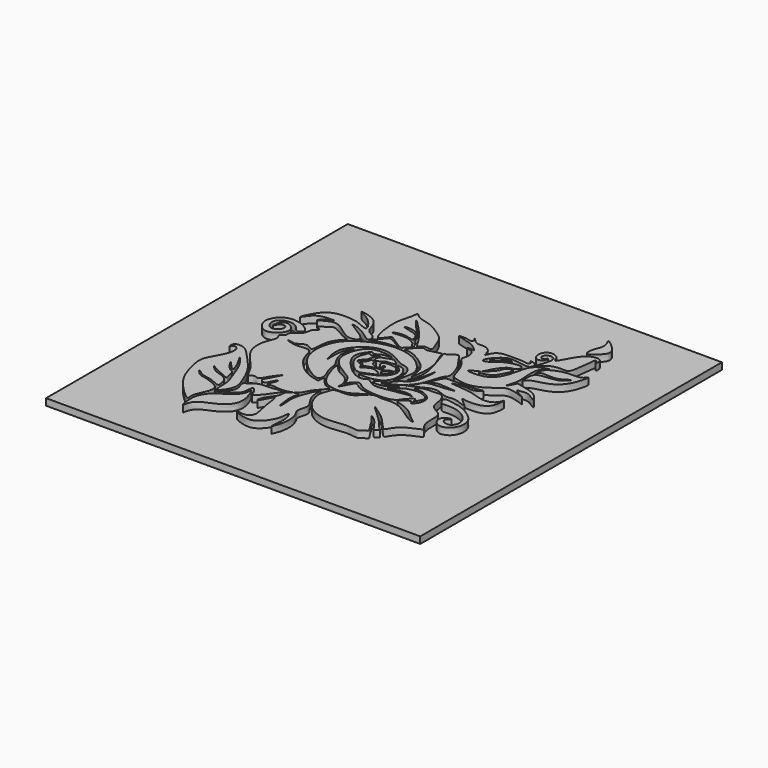
from build123d import *

# Parameters (mm, degrees)
F0_W      = 142.0335918665
F0_H      = 143.1416124105
F2_DEPTH  = 2.54
F4_DEPTH  = 2.54
F6_DEPTH  = 2.54
F8_DEPTH  = 2.54
F10_DEPTH = 2.54
F12_DEPTH = 2.54
F14_DEPTH = 2.54
F16_DEPTH = 2.54
F18_DEPTH = 2.54
F20_DEPTH = 2.54
F22_DEPTH = 2.54
F24_DEPTH = 2.54
F26_DEPTH = 2.54
F29_DEPTH = 2.54
F30_DEPTH = 2.54
F32_DEPTH = 2.54
F34_DEPTH = 2.54
F37_DEPTH = 2.54
F39_DEPTH = 2.54
F40_DEPTH = 2.54
F42_DEPTH = 2.54
F44_DEPTH = 2.54
F46_DEPTH = 2.54
F48_DEPTH = 2.54
F50_DEPTH = 2.54
F52_DEPTH = 2.54
F54_DEPTH = 2.54
F56_DEPTH = 2.54
F58_DEPTH = 2.54
F60_DEPTH = 2.54


with BuildPart() as f2:
    # F0 (on Top) → F2 (new body)
    with BuildSketch(Plane.XY):
        with Locations((0.7775574923, 0.4604011774)):
            Rectangle(F0_W, F0_H)
    extrude(amount=F2_DEPTH)

    # F3 (on face) → F4 (join)
    with BuildSketch(Plane.XY.offset(2.54)):
        with BuildLine():
            add(Edge.make_bspline(
                [(-35.9354950488, 5.2121505141), (-35.2554570232, 5.1129175661), (-33.1383157223, 6.5552011276), (-37.4565964475, 9.9123260933), (-42.1652799934, 10.5610988456), (-45.8646589743, 9.1320237133), (-48.5881693293, 4.2437619988), (-45.0719481248, -0.6927563574), (-40.9546030903, -0.6338683464), (-36.6966390998, 3.8474446901), (-40.2712487498, 7.6506772457), (-43.6560850077, 7.3397958577), (-44.3151224321, 2.0770944583), (-42.8763483733, 5.9241298542), (-39.9442654797, 5.7385537507), (-40.2701621801, 2.6792969789), (-43.5791400829, 1.3295823492), (-45.6021554346, 4.0471891281), (-45.4338628885, 7.1566123229), (-41.7677085642, 8.784123456), (-37.9564631887, 7.8107798415), (-36.7767901783, 5.3349145254), (-35.9354950488, 5.2121505141)],
                knots=[0, 0, 0, 0, 0.0386492329, 0.0947239122, 0.1553759691, 0.2079056098, 0.2680184246, 0.329543762, 0.3818147554, 0.4426685573, 0.4973749178, 0.5429224221, 0.5903707318, 0.6306123397, 0.6703085908, 0.711066894, 0.7573876449, 0.8033133974, 0.8480794943, 0.899275842, 0.9521858922, 1, 1, 1, 1], degree=3))
        make_face()
    extrude(amount=F4_DEPTH)

    # F5 (on offset) → F6 (join)
    with BuildSketch(Plane.XY.offset(2.54)):
        with BuildLine():
            add(Edge.make_bspline(
                [(-20.4722061753, 11.5269897506), (-19.3379010097, 11.6284609999), (-15.6853242202, 13.3320865451), (-30.2233198336, 20.4128416434), (-20.2019359659, 17.4429847541), (-15.7271246312, 12.5889805413), (-15.5640504579, 16.8255707666), (-19.8371067669, 17.9487383007), (-20.4693780212, 22.1267800851), (-23.1531747857, 26.0530880901), (-31.3699434313, 27.4910409232), (-24.3155524766, 25.1609740177), (-19.085849949, 17.5966785414), (-25.4455642017, 21.0655614937), (-28.7775689783, 21.424779901), (-37.8661107746, 22.0639606343), (-42.3157469012, 9.7112083792), (-38.5589378654, 17.2690882364), (-33.4918596477, 17.4550441849), (-30.7666025488, 17.4212007234), (-34.0572486473, 16.692603375), (-36.9764716907, 13.3325078265), (-32.8414991936, 16.1232944694), (-29.2230485979, 16.8528724567), (-24.5836725246, 12.8450154255), (-21.9222712218, 11.3972716497), (-20.4722061753, 11.5269897506)],
                knots=[0, 0, 0, 0, 0.0321466283, 0.092646097, 0.1380324678, 0.1852167514, 0.2132445989, 0.2521054472, 0.2906388899, 0.3350883226, 0.37927787, 0.4218444652, 0.4719459711, 0.5114633494, 0.5514989732, 0.6086961489, 0.6641777781, 0.7043618961, 0.7510018603, 0.7743777606, 0.8054874689, 0.8384652978, 0.8726279833, 0.9112667531, 0.9589046198, 1, 1, 1, 1], degree=3))
        make_face()
    extrude(amount=F6_DEPTH)

    # F7 (on offset) → F8 (join)
    with BuildSketch(Plane.XY.offset(2.54)):
        with BuildLine():
            add(Edge.make_bspline(
                [(-14.4707430154, 16.9961228967), (-13.6719687369, 16.8767807179), (-12.123345847, 19.8646493185), (-10.7871400698, 19.5949402524), (-4.8286560566, 15.0035902445), (-4.7103354041, 17.233077586), (-2.7541701818, 17.9570956221), (-3.7893187836, 19.4864205586), (-4.5586030076, 20.8328990838), (-8.2815745881, 22.7956377859), (-15.3074791288, 21.3493573667), (-10.0128333035, 23.8741829191), (-4.8019923542, 21.5078901328), (-6.2723270811, 23.5288222702), (-6.6214324112, 25.3247301319), (-9.8023833485, 26.2490865744), (-14.4984987771, 27.257400949), (-9.6025103833, 27.7098432028), (-6.1117910984, 24.8796729367), (-17.0653466723, 37.2177686624), (-4.393641803, 24.8707915569), (-2.2026406294, 18.9340257111), (-1.3110347589, 20.4060934272), (-0.168202987, 21.399586838), (3.2260458784, 20.3067304913), (1.5272539933, 23.5496483473), (0.4659681955, 27.8336995818), (-3.721652036, 30.7826615379), (-8.1095147799, 33.5240157232), (-13.2233541826, 34.117537094), (-15.1941748517, 36.9414459405), (-15.2888594717, 32.6270441578), (-17.5348825255, 28.4840006284), (-15.8921002891, 17.2084831071), (-14.4707430154, 16.9961228967)],
                knots=[0, 0, 0, 0, 0.0311193674, 0.0505845196, 0.0936012403, 0.11182475, 0.1334992399, 0.153166067, 0.1742051839, 0.209706828, 0.2460290145, 0.2769911026, 0.3131936642, 0.3316727083, 0.3541499805, 0.3859064034, 0.4145489472, 0.4452837376, 0.4681999537, 0.5148219938, 0.5697118241, 0.6117066817, 0.6270328723, 0.6479794144, 0.6741303951, 0.6998852128, 0.7364215261, 0.7739110329, 0.8129472351, 0.8515851047, 0.8753611375, 0.9025990642, 0.9446254839, 1, 1, 1, 1], degree=3))
        make_face()
    extrude(amount=F8_DEPTH)

    # F9 (on face) → F10 (join)
    with BuildSketch(Plane.XY.offset(2.54)):
        with BuildLine():
            add(Edge.make_bspline(
                [(13.1534831598, 21.9420548528), (13.3404544268, 21.0224810889), (16.4008715382, 18.9038213228), (18.0721404253, 11.8806000513), (18.7705348936, 11.0552418841), (25.6731811654, 8.6181785023), (32.9481131814, 13.4018600497), (35.9474016852, 16.4486242079), (45.7791391412, 12.3944414337), (37.4688584886, 16.2306659446), (40.1289271961, 16.368316636), (42.6419699367, 17.1412072422), (47.255157191, 13.2128522962), (44.7185622956, 17.3325382105), (40.5741109504, 18.8122044302), (37.6854991699, 19.2906497576), (35.997004641, 19.9507963825), (35.8779875096, 18.8983101348), (33.2756072347, 14.7320606518), (35.5373520673, 19.8911600689), (35.2493852002, 23.6135638801), (34.8499645019, 28.3450646507), (35.7405353167, 31.3178704295), (39.1058628256, 33.1747315711), (34.7556650382, 32.1769596494), (31.9295410686, 30.0471410656), (30.9402032347, 23.9648636928), (29.3868000546, 19.7161528882), (25.8503432093, 16.3053060425), (16.7728846623, 16.7024470435), (23.0795014514, 18.6815451432), (23.721398969, 20.8641795419), (25.5610885989, 24.1393617718), (27.8791804577, 26.4392314826), (30.2401351606, 26.2520064488), (30.9304609983, 28.2355743275), (29.9937569943, 29.2404490087), (27.4242303411, 28.9708040588), (23.7381557894, 27.7918811204), (22.0960534131, 25.8742696575), (18.7250854278, 24.2063945245), (18.5817124211, 26.0557215918), (20.8115905693, 28.8191325497), (24.0772668582, 31.4214244849), (29.0328713771, 30.1598088181), (32.8660263717, 29.8704008066), (32.6852892781, 32.549827415), (31.731916501, 33.1418637449), (29.2910681134, 33.6664071856), (31.1617404529, 32.7027391689), (30.8906228081, 31.3809674728), (28.3915888974, 31.9997540229), (26.4981211825, 31.8806289305), (21.4442091765, 32.2288529637), (18.1483771734, 31.0403958632), (16.9329521302, 26.8408723651), (16.6098045408, 31.0643503242), (12.9591651424, 32.7484891638), (10.3507339121, 31.5169784711), (7.0688584373, 35.9239875437), (9.709137801, 31.8200063743), (6.1746874214, 33.0653399769), (1.7585757562, 32.8482896237), (7.9093414891, 31.470385069), (10.4123399307, 30.5770528591), (13.6449782737, 27.5954265668), (11.5148746807, 28.6681761193), (9.2660271932, 28.2183053556), (11.5573450127, 27.7387841588), (13.0869454668, 27.3167837932), (14.008893625, 23.9947908226), (13.0207765331, 22.5947408738), (13.1534831598, 21.9420548528)],
                knots=[0, 0, 0, 0, 0.0173633581, 0.0392801509, 0.0477943813, 0.0688506749, 0.0929892783, 0.1108138708, 0.1305952167, 0.1477829689, 0.1562750399, 0.1709834112, 0.1872395983, 0.2003868685, 0.2186805401, 0.2332420147, 0.2429174505, 0.2510732648, 0.265415457, 0.2801175691, 0.2976624073, 0.3154992442, 0.3304842126, 0.3425755811, 0.3561935417, 0.3723283205, 0.3925044514, 0.4101496806, 0.4289803315, 0.4486587674, 0.4643117276, 0.4773955927, 0.4934075303, 0.5082163841, 0.5200895032, 0.5306854703, 0.5391997036, 0.5522622573, 0.5684864256, 0.5825008009, 0.5968388911, 0.6051470036, 0.6207753667, 0.6373898393, 0.6562360133, 0.6709507973, 0.6821579094, 0.6915621344, 0.701793733, 0.7107411286, 0.7183590984, 0.7305337188, 0.7427083448, 0.7611841566, 0.777002137, 0.7901983183, 0.8031787889, 0.8191345736, 0.8330817642, 0.8475089993, 0.8590266846, 0.8725272742, 0.8860182299, 0.9026392908, 0.9188773574, 0.9327385974, 0.9424140253, 0.9525678822, 0.9624122625, 0.9732137352, 0.9876760065, 1, 1, 1, 1], degree=3))
        make_face()
    extrude(amount=F10_DEPTH)

    # F11 (on offset) → F12 (join)
    with BuildSketch(Plane.XY.offset(2.54)):
        with BuildLine():
            add(Edge.make_bspline(
                [(25.8774682879, 29.7046620399), (25.877378733, 29.9447256068), (21.5681163945, 29.5375647181), (18.8822996448, 25.8217818992), (22.9997394794, 27.2991365897), (23.3862874417, 28.6904079905), (25.8775354116, 29.5247284618), (25.8774682879, 29.7046620399)],
                knots=[0, 0, 0, 0, 0.2454508892, 0.4537487904, 0.6499883579, 0.8160284908, 1, 1, 1, 1], degree=3))
        make_face()
    extrude(amount=F12_DEPTH)

    # F13 (on offset) → F14 (join)
    with BuildSketch(Plane.XY.offset(2.54)):
        with BuildLine():
            add(Edge.make_bspline(
                [(29.8257879913, 25.4517160356), (29.4171129523, 25.8828761518), (26.6542167397, 24.9734499335), (27.210274692, 22.2751480287), (20.1825132478, 17.2673451769), (26.6737526051, 18.6519148858), (28.2506539934, 20.7904737396), (30.3733167173, 24.8740625783), (29.8257879913, 25.4517160356)],
                knots=[0, 0, 0, 0, 0.1367757989, 0.2834471678, 0.4891642102, 0.6502052997, 0.8167525006, 1, 1, 1, 1], degree=3))
        make_face()
    extrude(amount=F14_DEPTH)

    # F15 (on offset) → F16 (join)
    with BuildSketch(Plane.XY.offset(2.54)):
        with BuildLine():
            add(Edge.make_bspline(
                [(33.280197531, 32.0301018655), (33.4245383904, 31.7014234747), (36.2760580071, 35.2615645125), (40.9004625846, 35.1461307925), (43.6674562601, 34.9694728936), (44.1244042789, 41.8089709124), (44.6433823171, 44.1886952719), (44.7703706057, 46.6582784763), (46.1462795382, 43.5105490685), (46.294645397, 46.3157717688), (44.9614200098, 47.4456561479), (41.4943989638, 46.7951507335), (38.6631049807, 43.5530880192), (35.4481077304, 36.517051087), (35.1029893605, 40.2479215586), (31.7221909675, 41.8204333956), (28.6681201258, 39.4630126773), (29.7842886905, 35.1176454059), (32.3130408141, 35.5016969822), (33.2161970936, 36.1608386245), (33.069036841, 38.8003663349), (32.6008360748, 36.1378064195), (30.7526507325, 37.1197302818), (30.8332596793, 38.6757100767), (32.6058082368, 39.9382089911), (36.0483363782, 38.6575541882), (33.0911584074, 32.4605626179), (33.280197531, 32.0301018655)],
                knots=[0, 0, 0, 0, 0.0471590029, 0.1023377215, 0.1375286159, 0.1983095151, 0.2422053079, 0.2692112014, 0.3008470622, 0.3309644511, 0.3624391152, 0.4051803921, 0.4603780198, 0.5193135595, 0.552767607, 0.5976419048, 0.6415070541, 0.6879991106, 0.7227142726, 0.7493291621, 0.7793527275, 0.8077731567, 0.8370126341, 0.8653191585, 0.8994949404, 0.9382371934, 1, 1, 1, 1], degree=3))
        make_face()
    extrude(amount=F16_DEPTH)

    # F17 (on offset) → F18 (join)
    with BuildSketch(Plane.XY.offset(2.54)):
        with BuildLine():
            add(Edge.make_bspline(
                [(40.1464514434, 47.5408770144), (40.8248120172, 47.1180618829), (44.1039363324, 49.8556541941), (46.3162696693, 53.3753215698), (38.841973028, 59.2782374772), (41.1514328473, 55.8617557401), (41.0790637926, 53.084152907), (39.907190525, 51.4212264715), (39.5222671601, 47.9299246242), (40.1464514434, 47.5408770144)],
                knots=[0, 0, 0, 0, 0.1572549013, 0.309472923, 0.5030827999, 0.6076144616, 0.7375401041, 0.855304035, 1, 1, 1, 1], degree=3))
        make_face()
    extrude(amount=F18_DEPTH)

    # F19 (on offset) → F20 (join)
    with BuildSketch(Plane.XY.offset(2.54)):
        with BuildLine():
            add(Edge.make_bspline(
                [(-15.4731022194, 14.0000209212), (-15.5027259609, 13.5575448795), (-11.8031624922, 16.0196148647), (-5.5863361557, 15.4620031878), (-7.0647326034, 16.5637185747), (-11.5677689534, 19.0964300394), (-11.9819268476, 18.3795057046), (-15.4377550511, 14.5279851253), (-15.4731022194, 14.0000209212)],
                knots=[0, 0, 0, 0, 0.1820832905, 0.4018722122, 0.4861317252, 0.69528662, 0.7827374807, 1, 1, 1, 1], degree=3))
        make_face()
    extrude(amount=F20_DEPTH)

    # F21 (on offset) → F22 (join)
    with BuildSketch(Plane.XY.offset(2.54)):
        with BuildLine():
            add(Edge.make_bspline(
                [(36.0699370503, 25.9624160826), (35.7728350516, 24.5820973443), (35.9270303555, 20.9478276986), (36.6339681373, 23.1614133305), (39.0352620793, 24.1585737135), (45.8534012243, 25.5641918396), (49.4088137441, 31.068457388), (50.4360229085, 37.1930984167), (48.9508993752, 33.7267112158), (43.2060754734, 34.5973245717), (38.5342011703, 32.7251504384), (36.0950934535, 30.9650051167), (36.1813355446, 26.8027578113), (36.4742976938, 29.6522235121), (40.2511481268, 29.2052463888), (44.3133017119, 29.2125828739), (48.382013196, 32.7756282644), (45.5979058993, 29.1336259061), (42.9413339105, 28.4390253368), (40.3682757785, 28.2252486105), (37.2442968538, 27.9231351882), (36.2906993266, 26.9880648764), (36.0699370503, 25.9624160826)],
                knots=[0, 0, 0, 0, 0.0553812677, 0.0820668936, 0.1266622044, 0.1981265579, 0.271818098, 0.327605566, 0.3630802661, 0.4285309951, 0.491229354, 0.5396112054, 0.5838450817, 0.6139819111, 0.6641681172, 0.7245801713, 0.7738684067, 0.8182078868, 0.8663647124, 0.9112685852, 0.9588488305, 1, 1, 1, 1], degree=3))
        make_face()
    extrude(amount=F22_DEPTH)

    # F23 (on offset) → F24 (join)
    with BuildSketch(Plane.XY.offset(2.54)):
        with BuildLine():
            add(Edge.make_bspline(
                [(17.167950049, 8.6157666519), (16.2085433785, 7.5650693974), (13.9872418554, 2.3448839631), (17.1860272622, 5.1663917151), (19.5740563893, 4.8037940781), (26.8577731117, 4.2807665769), (23.5447788534, 4.4034638919), (21.0495657881, 3.4556384186), (13.5549772911, 3.8865451442), (13.4392993192, 0.020532717), (9.9959548502, -2.3999973869), (13.3600947256, -1.0306569696), (15.3564187388, -0.0867382259), (19.7417159752, 2.4347484811), (24.5504455373, -0.7990014666), (27.8415818831, 0.8929800859), (35.2589981458, -2.9084801822), (28.43068074, 2.2063105232), (30.7603608455, 1.505858763), (35.0952400069, 1.2954078148), (39.9764628899, 3.1880867583), (39.8352094966, 10.1467382716), (39.5846539297, 6.7760484441), (36.3886402814, 4.6424235535), (32.1828737769, 5.4813852736), (28.2493399307, 7.1405365167), (19.4390916246, 7.3676124264), (22.3123943643, 8.0371596068), (25.9795559859, 8.4980893327), (28.7087582986, 7.6070492228), (32.307307341, 10.1210484672), (28.6498686371, 9.2976229952), (26.0820851875, 9.0520907707), (22.8418281021, 9.0773319344), (18.7394524885, 8.9269723128), (17.7076388524, 9.2068085545), (17.167950049, 8.6157666519)],
                knots=[0, 0, 0, 0, 0.0366358996, 0.0585829413, 0.087727152, 0.1245023385, 0.1429599746, 0.172033043, 0.2126378609, 0.2419781047, 0.2672074925, 0.2898806151, 0.3163713357, 0.35039673, 0.3861241469, 0.4183929544, 0.4516779655, 0.4850090614, 0.4996866372, 0.534353129, 0.5702172125, 0.6040223996, 0.6234142257, 0.6541364576, 0.685823681, 0.7224503315, 0.7638217418, 0.7811078676, 0.8130099454, 0.8414073676, 0.8670200834, 0.8904934904, 0.9180954315, 0.94732806, 0.9793914454, 1, 1, 1, 1], degree=3))
        make_face()
    extrude(amount=F24_DEPTH)

    # F25 (on offset) → F26 (join)
    with BuildSketch(Plane.XY.offset(2.54)):
        with BuildLine():
            add(Edge.make_bspline(
                [(25.4671033472, -1.8096164567), (25.1408005382, -2.3145240819), (26.1257281554, -4.613528543), (28.4059850971, -4.3037546017), (32.1394353993, -4.3078335725), (36.7095638363, -6.5623311536), (38.9969130293, -10.2464368677), (37.7069803427, -13.8584843783), (34.8009909074, -13.717516222), (32.9738725281, -11.8939479789), (36.4536495143, -9.7039885794), (31.5512951469, -11.0753889744), (32.289158991, -14.7320708607), (35.3348055471, -16.5948499067), (39.0559762647, -14.7563483653), (40.3387702077, -11.0681196221), (39.5539119029, -7.4338756386), (36.2379794916, -4.4788352039), (32.4083224197, -2.5293982504), (29.002204852, -1.9194788087), (25.8449100144, -1.2250138673), (25.4671033472, -1.8096164567)],
                knots=[0, 0, 0, 0, 0.0451934074, 0.0875641715, 0.1441981239, 0.2102223153, 0.2694826888, 0.3209874668, 0.3674108657, 0.407250849, 0.4489730767, 0.4976333046, 0.5486374956, 0.6007707987, 0.6567863497, 0.7131141905, 0.7680396828, 0.8291873428, 0.8896181384, 0.9476732344, 1, 1, 1, 1], degree=3))
        make_face()
    extrude(amount=F26_DEPTH)

    # F27 (on offset) → F29 (join)
    with BuildSketch(Plane.XY.offset(2.54)):
        with BuildLine():
            add(Edge.make_bspline(
                [(-3.6368290894, 15.9606467932), (-3.5548947515, 16.6998594203), (0.2317111451, 21.1714116572), (0.933180565, 18.7798964206), (7.1103172478, 21.3096559009), (6.7292609428, 19.8539956903), (8.6949207245, 15.9205177848), (10.116349107, 10.588258814), (8.7668898148, 1.8413201536), (8.4533511736, 6.5441003248), (7.4464378214, 11.1584738752), (-1.3288752941, 16.4660709012), (-3.6813541592, 15.5589410527), (-3.6368290894, 15.9606467932)],
                knots=[0, 0, 0, 0, 0.1068687809, 0.1601311504, 0.2672326997, 0.3040796451, 0.395771517, 0.5145739623, 0.6266015446, 0.6938796309, 0.7983642952, 0.9419249602, 1, 1, 1, 1], degree=3))
        make_face()
    extrude(amount=F29_DEPTH)

    # F28 (on offset) → F30 (join)
    with BuildSketch(Plane.XY.offset(2.54)):
        with BuildLine():
            add(Edge.make_bspline(
                [(5.8753937483, -4.124303814), (5.5142732943, -3.7160149451), (7.8388627921, -0.173908939), (12.3049350287, 0.9076114094), (12.6687554847, 14.5624684077), (11.8799700658, 4.4815592073), (7.7267791538, -0.9020242801), (12.9654403435, 7.3966149244), (5.8204798034, 22.0557956451), (8.2727203126, 20.6802568041), (10.8482256257, 24.0806783968), (12.680778573, 20.7360579875), (15.7491353595, 17.2882175661), (17.8273550882, 10.6666430388), (15.8943938733, 9.5510537351), (14.7622536507, 4.4371543321), (12.1679239079, -1.6418917074), (6.3308658259, -4.6392682182), (5.8753937483, -4.124303814)],
                knots=[0, 0, 0, 0, 0.052995571, 0.1169184483, 0.1968379041, 0.2646516387, 0.3229058346, 0.3933170815, 0.5000560634, 0.5267285396, 0.5772098894, 0.6222699178, 0.6872694772, 0.7572406999, 0.7940519809, 0.8558236296, 0.9331580292, 1, 1, 1, 1], degree=3))
        make_face()
    extrude(amount=F30_DEPTH)

    # F31 (on offset) → F32 (join)
    with BuildSketch(Plane.XY.offset(2.54)):
        with BuildLine():
            add(Edge.make_bspline(
                [(-12.1068069711, -14.3534000963), (-11.5408217786, -13.9951095763), (-11.4746972662, -11.51803969), (-13.4472999437, -8.5076304491), (-13.4083687988, -4.8261824515), (-15.0086116328, -2.7728272693), (-17.483101787, 2.2494591213), (-14.1466941037, 7.6621863342), (-18.3798351527, 4.0001734986), (-17.2179108698, -5.7808287199), (-18.9208739963, 0.7086843823), (-18.698149499, 5.5354446494), (-11.9291481832, 12.2595394373), (-4.2283772573, 11.6174928869), (0.7311160079, 7.7710000854), (3.307972141, 7.6646026233), (4.5039057771, 6.9488518408), (6.9845137754, 4.1493781388), (5.7845947737, -5.2550156474), (7.629224685, 3.3940453512), (8.0665296594, 7.4025203368), (3.5975042184, 12.3910147739), (-1.6926398736, 14.8875129907), (-8.8312028191, 15.5296787494), (-17.3707343318, 12.3677772309), (-23.7220731848, 6.8108911894), (-24.9360650467, -2.6011444469), (-21.6855974419, -8.7434616393), (-16.4887478795, -13.0656942054), (-12.8213510195, -14.8057341185), (-12.1068069711, -14.3534000963)],
                knots=[0, 0, 0, 0, 0.0251894459, 0.0562488206, 0.0855441026, 0.1110657347, 0.148641345, 0.1798726174, 0.2083323356, 0.2501897267, 0.2788212063, 0.3155622199, 0.3620674763, 0.4050740723, 0.4443380379, 0.4684058492, 0.4858966696, 0.5172677135, 0.5552561453, 0.5907492998, 0.6251111299, 0.6640815642, 0.7025834381, 0.7444704456, 0.7920871658, 0.8375025603, 0.8844900314, 0.9256887053, 0.96819887, 1, 1, 1, 1], degree=3))
        make_face()
    extrude(amount=F32_DEPTH)

    # F33 (on offset) → F34 (join)
    with BuildSketch(Plane.XY.offset(2.54)):
        with BuildLine():
            add(Edge.make_bspline(
                [(-4.5793405734, -4.6822861768), (-4.8518363865, -4.1403780382), (2.6922111223, -2.4110680477), (5.1205177682, 4.4143183262), (0.5557182311, 6.1446472466), (2.642388764, 6.7497803858), (5.899626706, 4.436208744), (6.4020329033, -5.627845971), (-4.2761094327, -5.2853171782), (-4.5793405734, -4.6822861768)],
                knots=[0, 0, 0, 0, 0.1695596992, 0.3301948154, 0.4426459102, 0.5056238264, 0.6294842538, 0.8113153358, 1, 1, 1, 1], degree=3))
        make_face()
    extrude(amount=F34_DEPTH)

    # F36 (on offset) → F37 (join)
    with BuildSketch(Plane.XY.offset(2.54)):
        with BuildLine():
            add(Edge.make_bspline(
                [(1.2782895938, 0), (2.1017424356, 0.4976219717), (4.3207625681, 3.3788397351), (-0.5163957084, 1.2742015453), (-0.130869627, -0.1891004837), (0.7152044642, -0.3402787849), (1.2782895938, 0)],
                knots=[0, 0, 0, 0, 0.297347943, 0.6138775654, 0.7966705602, 1, 1, 1, 1], degree=3))
        make_face()
    extrude(amount=F37_DEPTH)

    # F38 (on offset) → F39 (join)
    with BuildSketch(Plane.XY.offset(2.54)):
        with BuildLine():
            add(Edge.make_bspline(
                [(-7.0695918985, 4.3714242056), (-6.6216802176, 4.6947705186), (-4.8066399406, 4.6938041452), (-6.1402077109, 3.1561866366), (-3.5255160222, 1.4281862801), (-0.8564137291, 2.3115870482), (-1.2939764463, 3.9474766152), (-2.4807371884, 3.9321255795), (-1.6111405236, 2.0359892375), (-3.1900483158, 3.2558302702), (-4.1248045206, 5.1965844856), (-1.0010397849, 5.8567724198), (2.2870468899, 5.1502912701), (3.2385673412, 2.4387497685), (1.7343929055, 2.9935788003), (-0.0067456792, 1.3137207522), (-3.4373628918, 1.4922342579), (-6.6591620308, -0.0011649598), (-7.3378669591, -0.1528462621), (-7.5426683218, 1.3722150871), (-10.1661456499, 1.5864810449), (-7.2815991357, 2.7203464972), (-7.5175080478, 4.0480746668), (-7.0695918985, 4.3714242056)],
                knots=[0, 0, 0, 0, 0.0470594211, 0.0845006673, 0.1426113603, 0.1985591947, 0.2378105668, 0.2669499906, 0.3060769005, 0.3456804903, 0.3933283913, 0.4507403084, 0.5188818751, 0.5686595877, 0.6031378363, 0.6569097454, 0.7260208433, 0.7938234759, 0.81784233, 0.8589297835, 0.9034628666, 0.9529401094, 1, 1, 1, 1], degree=3))
        make_face()
    extrude(amount=F39_DEPTH)

    # F35 (on offset) → F40 (join)
    with BuildSketch(Plane.XY.offset(2.54)):
        with BuildLine():
            add(Edge.make_bspline(
                [(-6.5053808503, 5.0777504221), (-6.1539427013, 4.7503391943), (-4.7283466673, 5.0670797513), (-3.6660677488, 6.5247321478), (-1.5373549108, 6.2531927287), (0.7301906269, 6.8731866238), (-1.385853019, 8.3034836394), (-2.3686255546, 8.9796851365), (-4.4755903747, 7.8643436629), (-6.8361565218, 7.3623595405), (-6.8830864337, 5.4296332474), (-6.5053808503, 5.0777504221)],
                knots=[0, 0, 0, 0, 0.1040860955, 0.212723876, 0.3352303111, 0.4367461133, 0.5476819949, 0.6388707336, 0.7621709552, 0.8881342292, 1, 1, 1, 1], degree=3))
        make_face()
    extrude(amount=F40_DEPTH)

    # F41 (on offset) → F42 (join)
    with BuildSketch(Plane.XY.offset(2.54)):
        with BuildLine():
            add(Edge.make_bspline(
                [(-3.6025962327, 9.5916688442), (-3.593058388, 9.8807365799), (-11.3322108206, 11.5593542284), (-15.0874674922, 6.4699304111), (-16.2064984725, -0.2676674593), (-12.114348203, -4.8704389579), (-7.2059667692, -7.3822833335), (-5.032195615, -9.1553806378), (-3.9325354983, -12.4594811509), (-3.3768498486, -11.084471705), (-1.3804826375, -8.7976289609), (0.1904233234, -9.6307949074), (2.5696055913, -11.9850463799), (12.0239211928, -12.5283150643), (15.0501127771, -10.7714165197), (15.5616372273, -9.4783561974), (19.050483563, -5.7560324156), (18.8615305299, -9.092803968), (20.331198572, -6.87981492), (21.1850499528, -4.6357666161), (18.3365788258, -3.1061800477), (15.9202263842, -2.5514504734), (11.4670257288, -3.5684168256), (10.4226639261, -4.9440805263), (5.932764805, -6.9202653231), (12.4679464051, -5.6438875507), (14.4569330255, -5.2664908508), (17.5756855096, -6.3866080898), (15.4909326515, -6.1452368164), (13.7038857321, -6.6906868948), (8.3526690565, -7.2688607239), (3.1610874591, -8.6379552713), (0.0565874257, -5.2638596667), (-1.2434091876, -6.7488661554), (-5.2636309792, -6.7473141704), (-11.9830410572, -0.2609838582), (-13.6577011885, 4.655153242), (-9.9644949038, 9.4007859004), (-9.0932394495, 7.2639411798), (-7.4829494815, 9.5476443236), (-3.6096171637, 9.3788823365), (-3.6025962327, 9.5916688442)],
                knots=[0, 0, 0, 0, 0.036373427, 0.071464817, 0.1069438919, 0.1410982385, 0.1741721431, 0.1989119781, 0.2216198218, 0.2343772998, 0.2584720679, 0.2748961108, 0.3004313054, 0.3438490973, 0.3687968778, 0.3870874853, 0.4140751026, 0.4303031612, 0.4483449608, 0.4696852387, 0.4927245949, 0.5161181607, 0.545070676, 0.5660039947, 0.5886897808, 0.617697427, 0.6423982607, 0.6624514244, 0.6768563455, 0.6972467003, 0.7301839724, 0.7630851289, 0.7899159494, 0.80632606, 0.8327870538, 0.8756979028, 0.9080274173, 0.9376834986, 0.951686772, 0.9732250488, 1, 1, 1, 1], degree=3))
        make_face()
    extrude(amount=F42_DEPTH)

    # F43 (on offset) → F44 (join)
    with BuildSketch(Plane.XY.offset(2.54)):
        with BuildLine():
            add(Edge.make_bspline(
                [(-6.0940436088, -3.7584430538), (-4.9086566761, -4.135563993), (-3.3370996078, -3.0284186681), (1.3023036351, -1.6924246023), (-2.0869151924, 0.3013994736), (-4.5713033825, 0.5604733386), (-7.2798679338, -2.1905417653), (-7.1933562435, 0.4850508738), (-9.8264736791, 0.7994041417), (-10.4747845437, 2.1411686978), (-8.371716703, 3.7258840984), (-8.1279749866, 5.0901233718), (-7.5352607885, 7.1439696823), (-5.798708723, 8.078916496), (-8.3009833814, 7.7846498665), (-9.0606801851, 6.1179380852), (-10.3142249092, 7.9598088403), (-10.8703537957, 6.1397946647), (-12.9546096823, 1.8515045993), (-7.9544614343, -3.1665666814), (-6.0940436088, -3.7584430538)],
                knots=[0, 0, 0, 0, 0.0664875116, 0.1341695408, 0.1915517393, 0.2532682877, 0.3132772314, 0.3578363105, 0.4147867765, 0.4522967424, 0.5084034848, 0.5530138969, 0.6078143054, 0.6457633413, 0.6927771079, 0.7367017907, 0.7781743135, 0.8176908009, 0.8956504848, 1, 1, 1, 1], degree=3))
        make_face()
    extrude(amount=F44_DEPTH)

    # F45 (on offset) → F46 (join)
    with BuildSketch(Plane.XY.offset(2.54)):
        with BuildLine():
            add(Edge.make_bspline(
                [(-12.8013957292, -4.7743720934), (-12.5206280657, -4.5555578537), (-10.4827874704, -7.7691705191), (-6.4496279308, -8.5123469219), (-3.8641233759, -12.4117843731), (-4.4452778706, -15.6652661896), (-3.5333437738, -13.8946542621), (-2.2496252253, -11.7237161123), (-1.5425726918, -9.8021267699), (0.2442629631, -10.8609917497), (1.6922884423, -12.5540241542), (7.665369079, -12.4451028648), (4.2558599629, -13.924903339), (1.1334663571, -16.8609100239), (-5.396997968, -17.1887678294), (-10.7833885308, -14.537606437), (-13.2705213325, -5.1399817258), (-12.8013957292, -4.7743720934)],
                knots=[0, 0, 0, 0, 0.0637556164, 0.1398287043, 0.2163871631, 0.2688962507, 0.3055167622, 0.3674006783, 0.4130536913, 0.4569158004, 0.5149553319, 0.5882454603, 0.6367548237, 0.7142901697, 0.8024353324, 0.8934728037, 1, 1, 1, 1], degree=3))
        make_face()
    extrude(amount=F46_DEPTH)

    # F47 (on offset) → F48 (join)
    with BuildSketch(Plane.XY.offset(2.54)):
        with BuildLine():
            add(Edge.make_bspline(
                [(1.8136958824, -5.7885241695), (1.4931609388, -6.6306521113), (5.9729025389, -7.0923972912), (10.7769348854, -3.4202442751), (8.546228306, -3.7746077909), (2.3993131665, -6.5666982015), (7.2358313393, -2.2058255548), (2.1529213742, -4.8972913387), (1.8136958824, -5.7885241695)],
                knots=[0, 0, 0, 0, 0.1774790853, 0.3845868468, 0.4864711768, 0.6832052003, 0.8121720231, 1, 1, 1, 1], degree=3))
        make_face()
    extrude(amount=F48_DEPTH)

    # F49 (on offset) → F50 (join)
    with BuildSketch(Plane.XY.offset(2.54)):
        with BuildLine():
            add(Edge.make_bspline(
                [(-34.6685908735, -0.9596017771), (-34.5489628573, -0.8580416514), (-32.0989175988, -1.3647304436), (-31.2934035567, -1.6474663397), (-28.0938851303, 1.1922807581), (-24.2999693164, -3.2259969386), (-25.7850820808, 6.4929902257), (-19.8822947192, 10.5584650537), (-23.4155377583, 10.670230967), (-28.9129449888, 14.791700441), (-30.1549055455, 12.8473123517), (-34.3458205995, 11.0628951064), (-30.2750737501, 10.2590144577), (-33.6912121025, 8.5061365043), (-32.8465356731, 4.968276375), (-37.8569694605, 2.823194671), (-36.3792561085, 0.9415443333), (-39.3073664189, 0.1461628109), (-37.1664078261, -1.7127186619), (-39.1969523142, -5.3895443914), (-39.7980676573, -9.0844744298), (-38.9412464872, -14.2619908418), (-33.9248667737, -19.3010374466), (-31.307121625, -22.7104927682), (-29.6359388698, -26.6667350379), (-28.9661047911, -25.3270523468), (-27.2819262962, -25.1386765438), (-25.885393061, -26.0129681815), (-24.6478390315, -23.4294348166), (-23.1720975914, -21.3650532967), (-21.0425736764, -18.6744126912), (-22.2212874974, -20.590821921), (-23.3384914998, -23.3273046931), (-25.2941221596, -25.7973905298), (-22.5728766746, -27.1586874672), (-21.7606231621, -24.6283983683), (-20.1611777617, -22.2031309202), (-20.7543088512, -24.6870747841), (-22.0917649725, -27.4731712262), (-19.8001250443, -26.4446490235), (-16.1799404179, -27.5469657207), (-10.1799478324, -25.9122809115), (-9.5514503009, -21.9240756896), (-4.0247683362, -17.0248773952), (-8.3308187879, -17.406143438), (-11.4816183729, -11.376267569), (-10.8229342831, -16.2109564682), (-12.8852935962, -15.2305444616), (-16.9020092531, -14.8291900939), (-24.1600433012, -8.0352485578), (-24.391471878, -3.0669757176), (-26.5235875087, -1.4136313476), (-30.7581890737, -2.669654174), (-34.8155674228, -1.0843798794), (-34.6685908735, -0.9596017771)],
                knots=[0, 0, 0, 0, 0.0170845449, 0.0286161639, 0.0492765901, 0.0679948188, 0.0974294719, 0.1231583654, 0.1388169567, 0.1668336136, 0.1826879033, 0.2018448996, 0.2166152895, 0.233192145, 0.2532156102, 0.276177903, 0.2888977163, 0.3040409515, 0.3185827681, 0.3402235476, 0.3619624816, 0.3867595917, 0.4159322456, 0.4405282754, 0.4603904351, 0.4701689328, 0.4842591363, 0.4967858037, 0.513564314, 0.5334244361, 0.5500012889, 0.561639265, 0.5823350676, 0.6000154516, 0.6146282164, 0.6320275804, 0.6472716861, 0.6614748221, 0.6788220564, 0.6918231373, 0.7140149537, 0.739871415, 0.7625791333, 0.7880252857, 0.8057445739, 0.829024346, 0.8454871009, 0.8581976091, 0.8807914059, 0.915110274, 0.9390298054, 0.9547095844, 0.9790097041, 1, 1, 1, 1], degree=3))
        make_face()
    extrude(amount=F50_DEPTH)

    # F51 (on offset) → F52 (join)
    with BuildSketch(Plane.XY.offset(2.54)):
        with BuildLine():
            add(Edge.make_bspline(
                [(6.8553145975, -12.9549205303), (5.4097892343, -13.6559541509), (2.9681893238, -18.3820965188), (-4.0651548924, -16.6422529257), (-4.6124922734, -19.2547566255), (-6.3318225506, -22.6066847671), (-3.3287230086, -30.4326910172), (3.8972089523, -33.8736321211), (9.1576198583, -33.4463519288), (13.994390017, -32.692429499), (18.0938237574, -33.7001219615), (18.7080397533, -32.5815022337), (21.0963705373, -31.4782009758), (19.7280363088, -30.4484139803), (17.7699425205, -26.1326879291), (14.4332423706, -22.9618671018), (17.0676339556, -24.4638796169), (19.2051822073, -27.0414117413), (21.5908418788, -30.8328498627), (22.0422566115, -29.4416577209), (23.0321342975, -28.9260976052), (21.6139691016, -28.1533311133), (20.1370326036, -25.3211333031), (10.5752571722, -17.1121275958), (14.6066684479, -19.7863853871), (18.8397581504, -22.5827550058), (23.2739960028, -28.4926435067), (24.1421940565, -27.1369082047), (26.4776243792, -22.8161453557), (33.5678560556, -21.0289003251), (31.7648323328, -19.5893672336), (30.4830409228, -16.9857283351), (30.6673411774, -12.6185358409), (30.25908324, -9.7983372486), (26.0475626616, -8.1945445096), (25.1145802184, -5.5120589948), (24.9388092029, -2.0765144196), (22.7945465974, 0.4136506588), (20.8652097056, -0.2005865946), (16.77225992, 0.2388582285), (12.9506245972, -1.9429591095), (17.6382783418, -1.6979545661), (21.0334172902, -3.9345740668), (21.7109390164, -5.8102683574), (21.0352281873, -8.8180629046), (18.7258560209, -10.4492131434), (19.447341555, -8.8965680307), (17.5349258401, -8.7343016704), (14.5831955801, -11.4591501933), (17.0459447326, -12.0092990603), (21.7479901077, -13.6760099833), (24.3775536945, -16.8072871515), (28.2929168739, -19.3546610045), (24.6435963419, -18.2938233229), (21.6847575281, -15.7710591197), (15.4538187345, -12.0922801861), (10.6461443901, -13.4190512032), (7.9743032104, -12.4122468017), (6.8553145975, -12.9549205303)],
                knots=[0, 0, 0, 0, 0.0244817759, 0.0484163863, 0.0620056503, 0.0805671672, 0.1080223402, 0.1353470913, 0.1578255443, 0.1801659461, 0.1991787989, 0.2098300713, 0.2240429031, 0.2340355519, 0.256946122, 0.2743776103, 0.2864560677, 0.3066838153, 0.3252025848, 0.3341002384, 0.3429978919, 0.3525351775, 0.3723938388, 0.4032591236, 0.4164417805, 0.4413849435, 0.4663107414, 0.4750395495, 0.4972905044, 0.521563967, 0.5321627868, 0.5491363838, 0.5698663064, 0.5858189066, 0.6056046333, 0.6218027943, 0.6402256552, 0.656734702, 0.6698871048, 0.6907874972, 0.7066195332, 0.7237526709, 0.7439960099, 0.7572800302, 0.7748665758, 0.788176672, 0.7967073641, 0.808350314, 0.8259506878, 0.8380291415, 0.8601813716, 0.881783602, 0.89854323, 0.9125012119, 0.9333884867, 0.9593416496, 0.9810485314, 1, 1, 1, 1], degree=3))
        make_face()
    extrude(amount=F52_DEPTH)

    # F53 (on offset) → F54 (join)
    with BuildSketch(Plane.XY.offset(2.54)):
        with BuildLine():
            add(Edge.make_bspline(
                [(-30.7844020426, -39.8995429277), (-30.8155308393, -39.7201521638), (-24.9355412748, -35.7914510572), (-28.5454241364, -31.0699498108), (-26.1137401983, -30.1803640466), (-23.6528923477, -27.7310867154), (-19.0006676076, -28.5396614949), (-13.7749098431, -26.7797829978), (-15.9274857472, -29.3630591527), (-17.759854043, -32.347178254), (-21.0731673096, -36.0177379245), (-21.1357121668, -33.6032120829), (-23.5633228899, -30.5448012056), (-23.7478764369, -33.1870772545), (-24.0123593476, -35.8585771921), (-25.7703974911, -37.3810429736), (-30.7549619213, -40.0692020993), (-30.7844020426, -39.8995429277)],
                knots=[0, 0, 0, 0, 0.0889141518, 0.1669066235, 0.2159120021, 0.2825886003, 0.3661504636, 0.43936139, 0.4883621838, 0.5663856028, 0.6372733215, 0.6832777826, 0.7466939802, 0.7927943864, 0.8533921808, 0.9159092642, 1, 1, 1, 1], degree=3))
        make_face()
    extrude(amount=F54_DEPTH)

    # F55 (on offset) → F56 (join)
    with BuildSketch(Plane.XY.offset(2.54)):
        with BuildLine():
            add(Edge.make_bspline(
                [(-32.8218378127, -52.9969707131), (-32.663517822, -53.0124919288), (-32.504822018, -50.4287056383), (-30.2832991068, -48.1025495027), (-26.3548495473, -46.7366616308), (-22.0353324124, -44.2484963229), (-19.7229682812, -39.4841926198), (-23.1331286251, -31.5641764811), (-22.7719065693, -34.9144605796), (-24.5017353713, -37.6233825558), (-27.1202434082, -39.5887513519), (-30.7136029196, -41.345713623), (-33.3139872103, -45.1641982072), (-33.7932083424, -48.6406420041), (-33.0352503365, -52.9760483913), (-32.8218378127, -52.9969707131)],
                knots=[0, 0, 0, 0, 0.0578867175, 0.1303672359, 0.2109715068, 0.2977349143, 0.3899176429, 0.4881859396, 0.5356257473, 0.608231095, 0.6800944729, 0.7591867261, 0.8414588279, 0.9219697372, 1, 1, 1, 1], degree=3))
        make_face()
    extrude(amount=F56_DEPTH)

    # F57 (on offset) → F58 (join)
    with BuildSketch(Plane.XY.offset(2.54)):
        with BuildLine():
            add(Edge.make_bspline(
                [(-13.9055270702, -27.7350079268), (-13.2123463014, -26.7684179972), (-9.685259897, -25.0280012089), (-10.8294968661, -28.3055611789), (-10.9388379436, -30.9508967129), (-9.9833222729, -37.1120080466), (-9.6817503933, -32.1845946696), (-10.7964880521, -28.9955765323), (-5.7500230916, -17.0838881044), (-7.3014720957, -25.2195470019), (-2.8171199965, -29.6479117863), (-3.7156055278, -32.242671243), (-4.3097275258, -34.9064906388), (-2.8823992544, -36.577828887), (-1.469820121, -41.7010783673), (-4.29009711, -49.2980738427), (-3.4885050822, -43.6964764639), (-3.3060310357, -40.8451590326), (-4.8650290263, -36.6153216362), (-5.037355562, -40.4408607469), (-5.9345981151, -43.7607642539), (-10.7026837499, -49.9327039215), (-20.0332937238, -45.2227038978), (-14.6591514007, -46.9563647904), (-11.5040233194, -44.5399930625), (-13.6245946012, -39.2491045416), (-14.0815993171, -30.7094690476), (-15.7068670445, -33.9431791794), (-17.7786423813, -38.1401709356), (-17.495859724, -34.1795828323), (-13.6150644368, -30.3676357885), (-14.4669011731, -28.5178030924), (-13.9055270702, -27.7350079268)],
                knots=[0, 0, 0, 0, 0.03321363, 0.056515492, 0.0889218622, 0.1229505118, 0.1495520895, 0.1867503005, 0.2366171572, 0.270881106, 0.3136864788, 0.3402880565, 0.3671284717, 0.3910057157, 0.432043275, 0.4710731044, 0.5004161833, 0.5343081659, 0.5624260462, 0.5872769972, 0.621313733, 0.6662739753, 0.7092083726, 0.7373475563, 0.767735975, 0.8092678698, 0.8529065319, 0.877064671, 0.9087449538, 0.9332936316, 0.9731018623, 1, 1, 1, 1], degree=3))
        make_face()
    extrude(amount=F58_DEPTH)

    # F59 (on offset) → F60 (join)
    with BuildSketch(Plane.XY.offset(2.54)):
        with BuildLine():
            add(Edge.make_bspline(
                [(-31.0794878751, -38.8372689486), (-30.3900658523, -39.0825438499), (-26.9669789109, -34.7594396483), (-28.9656702537, -29.5180693516), (-31.7937531563, -22.6427179062), (-37.595456625, -16.8032434185), (-41.226254963, -12.4794090355), (-44.7607736202, -12.3173736045), (-45.8831493802, -13.3651210702), (-45.4533940755, -15.7364036572), (-44.9945469372, -13.7856971208), (-43.8654789007, -13.880033397), (-42.4045583943, -15.1717619054), (-43.0633732844, -19.5714574949), (-47.0080992325, -25.2071014296), (-47.0244788651, -29.3217258345), (-44.7965870322, -37.7479146358), (-40.6799923389, -43.5997783772), (-33.634329149, -50.069522843), (-35.0945674684, -46.0448405598), (-32.3849072929, -41.9812248145), (-31.8984528972, -37.8135013149), (-35.3112095593, -36.2992405341), (-38.5475977175, -35.0481132939), (-41.2221901746, -34.9818075088), (-43.7570571963, -31.4954331878), (-41.3588199827, -33.8440047836), (-38.8123490427, -34.6498650802), (-36.6180185351, -34.6470707385), (-31.7056332268, -37.5403629242), (-33.0691375023, -34.1377128828), (-32.959950115, -32.870887161), (-35.4729645736, -30.6894280742), (-39.0268186064, -30.3118210936), (-42.116797022, -26.903102953), (-39.7260329487, -28.6928751876), (-37.7227855962, -29.3933175047), (-32.9428877538, -31.8710860947), (-34.2849606926, -29.7455675402), (-34.3144509985, -27.1546398511), (-35.932139308, -26.7026631023), (-37.6258673111, -25.043686379), (-39.5849095266, -21.8412500232), (-37.9240073072, -23.6933150582), (-34.8312018142, -27.0570623962), (-36.2872479605, -23.0990706747), (-37.2289374959, -21.146585645), (-39.7973472898, -17.0738401322), (-35.0896015975, -22.6741859509), (-33.1094153503, -29.4230534795), (-31.2269730784, -33.2473228643), (-31.7869524669, -38.5855750627), (-31.0794878751, -38.8372689486)],
                knots=[0, 0, 0, 0, 0.0236007182, 0.0496327407, 0.079487645, 0.1112031095, 0.1369317025, 0.1558554575, 0.168720547, 0.1817215695, 0.193116542, 0.2035171559, 0.2173630587, 0.2395996813, 0.268118964, 0.2901174883, 0.3214198779, 0.3534540405, 0.3819322921, 0.3973456336, 0.42215603, 0.4429152722, 0.4626648469, 0.4831603562, 0.5017015626, 0.5192489869, 0.5339948553, 0.5524250281, 0.5699709633, 0.5917705316, 0.6074789273, 0.6204531037, 0.6388840885, 0.6610794654, 0.6796217905, 0.6927779145, 0.7117106715, 0.7334193902, 0.7457897742, 0.7632841389, 0.7760367586, 0.7940019771, 0.8114626117, 0.8248202105, 0.8444707457, 0.8610673639, 0.8804355289, 0.897774078, 0.921193722, 0.9516632226, 0.9757816375, 1, 1, 1, 1], degree=3))
        make_face()
    extrude(amount=F60_DEPTH)


solid = f2.part
